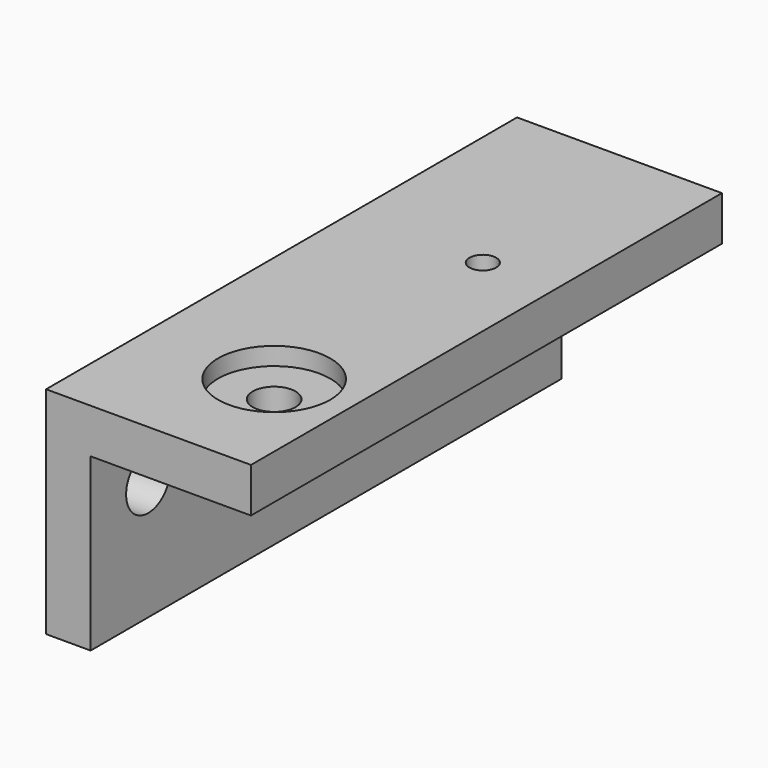
from build123d import *

# Parameters (mm, degrees)
F1_DEPTH  = 41.9608
F2_R      = 1.9685
F3_DEPTH  = 14.606
F4_R      = 0.9525
F5_DEPTH  = 15.368
F6_R      = 3.048
F7_DEPTH  = 1.143
F8_R      = 1.524
F9_DEPTH  = 15.368
F10_R     = 4.0005
F11_DEPTH = 1.27


with BuildPart() as f1:
    # F0 (on Front) → F1 (new body)
    with BuildSketch(Plane.XZ):
        Polygon((0, -12.192), (0, 0), (11.43, 0), (11.43, 3.175), (-3.175, 3.175), (-3.175, -12.192), align=None)
    extrude(amount=F1_DEPTH)

    # F2 (on face) → F3 (cut, through all)
    with BuildSketch(Plane(origin=(-3.175, 0, 0), x_dir=(0, -1, 0), z_dir=(-1, 0, 0))):
        with Locations((5.5372, -3.302)):
            Circle(F2_R)
        with Locations((36.83, -3.683)):
            Circle(F2_R)
    extrude(amount=-F3_DEPTH, mode=Mode.SUBTRACT)

    # F4 (on face) → F5 (cut, through all)
    with BuildSketch(Plane.XY.offset(3.175)):
        with Locations((6.2738, -14.859)):
            Circle(F4_R)
    extrude(amount=-F5_DEPTH, mode=Mode.SUBTRACT)

    # F6 (on face) → F7 (cut)
    with BuildSketch(Plane(origin=(0, 0, 0), x_dir=(1, 0, 0), z_dir=(0, 0, -1))):
        with Locations((6.2738, 14.859)):
            Circle(F6_R)
    extrude(amount=-F7_DEPTH, mode=Mode.SUBTRACT)

    # F8 (on face) → F9 (cut, through all)
    with BuildSketch(Plane.XY.offset(3.175)):
        with Locations((5.969, -33.0708)):
            Circle(F8_R)
    extrude(amount=-F9_DEPTH, mode=Mode.SUBTRACT)

    # F10 (on face) → F11 (cut)
    with BuildSketch(Plane.XY.offset(3.175)):
        with Locations((5.969, -33.0708)):
            Circle(F10_R)
    extrude(amount=-F11_DEPTH, mode=Mode.SUBTRACT)


solid = f1.part
